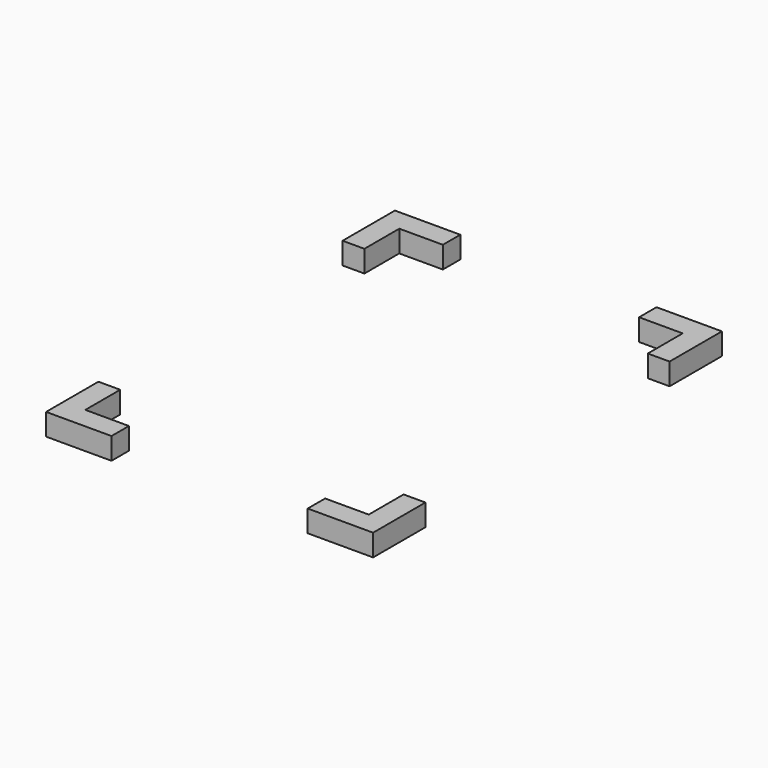
from build123d import *

# Parameters (mm, degrees)
BOX044_W     = 6
BOX044_H     = 2
BOX044_DEPTH = 2
BOX045_W     = 6
BOX045_H     = 2
BOX045_DEPTH = 2
BOX046_W     = 6
BOX046_H     = 2
BOX046_DEPTH = 2
BOX048_W     = 6
BOX048_H     = 2
BOX048_DEPTH = 2
BOX049_W     = 2
BOX049_H     = 6
BOX049_DEPTH = 2
BOX050_W     = 2
BOX050_H     = 6
BOX050_DEPTH = 2
BOX051_W     = 2
BOX051_H     = 6
BOX051_DEPTH = 2
BOX043_W     = 2
BOX043_H     = 6
BOX043_DEPTH = 2


with BuildPart() as cube001:
    # Box044 → Box044 (new body)
    with BuildSketch(Plane.XY.offset(19)):
        with Locations((3, 1)):
            Rectangle(BOX044_W, BOX044_H)
    extrude(amount=BOX044_DEPTH)


with BuildPart() as cube002:
    # Box045 → Box045 (new body)
    with BuildSketch(Plane(origin=(24, 0, 19), x_dir=(1, 0, 0), z_dir=(0, 0, 1))):
        with Locations((3, 1)):
            Rectangle(BOX045_W, BOX045_H)
    extrude(amount=BOX045_DEPTH)


with BuildPart() as cube003:
    # Box046 → Box046 (new body)
    with BuildSketch(Plane(origin=(0, 38, 19), x_dir=(1, 0, 0), z_dir=(0, 0, 1))):
        with Locations((3, 1)):
            Rectangle(BOX046_W, BOX046_H)
    extrude(amount=BOX046_DEPTH)


with BuildPart() as cube005:
    # Box048 → Box048 (new body)
    with BuildSketch(Plane(origin=(24, 38, 19), x_dir=(1, 0, 0), z_dir=(0, 0, 1))):
        with Locations((3, 1)):
            Rectangle(BOX048_W, BOX048_H)
    extrude(amount=BOX048_DEPTH)


with BuildPart() as cube006:
    # Box049 → Box049 (new body)
    with BuildSketch(Plane(origin=(28, 0, 19), x_dir=(1, 0, 0), z_dir=(0, 0, 1))):
        with Locations((1, 3)):
            Rectangle(BOX049_W, BOX049_H)
    extrude(amount=BOX049_DEPTH)


with BuildPart() as cube007:
    # Box050 → Box050 (new body)
    with BuildSketch(Plane(origin=(0, 34, 19), x_dir=(1, 0, 0), z_dir=(0, 0, 1))):
        with Locations((1, 3)):
            Rectangle(BOX050_W, BOX050_H)
    extrude(amount=BOX050_DEPTH)


with BuildPart() as cube008:
    # Box051 → Box051 (new body)
    with BuildSketch(Plane(origin=(28, 34, 19), x_dir=(1, 0, 0), z_dir=(0, 0, 1))):
        with Locations((1, 3)):
            Rectangle(BOX051_W, BOX051_H)
    extrude(amount=BOX051_DEPTH)


with BuildPart() as support:
    # Box043 → Box043 (new body)
    with BuildSketch(Plane.XY.offset(19)):
        with Locations((1, 3)):
            Rectangle(BOX043_W, BOX043_H)
    extrude(amount=BOX043_DEPTH)

    # Fusion012: union Cube001, Cube002, Cube003, Cube005, Cube006, Cube007, Cube008
    add(cube001.part)
    add(cube002.part)
    add(cube003.part)
    add(cube005.part)
    add(cube006.part)
    add(cube007.part)
    add(cube008.part)


solid = support.part
